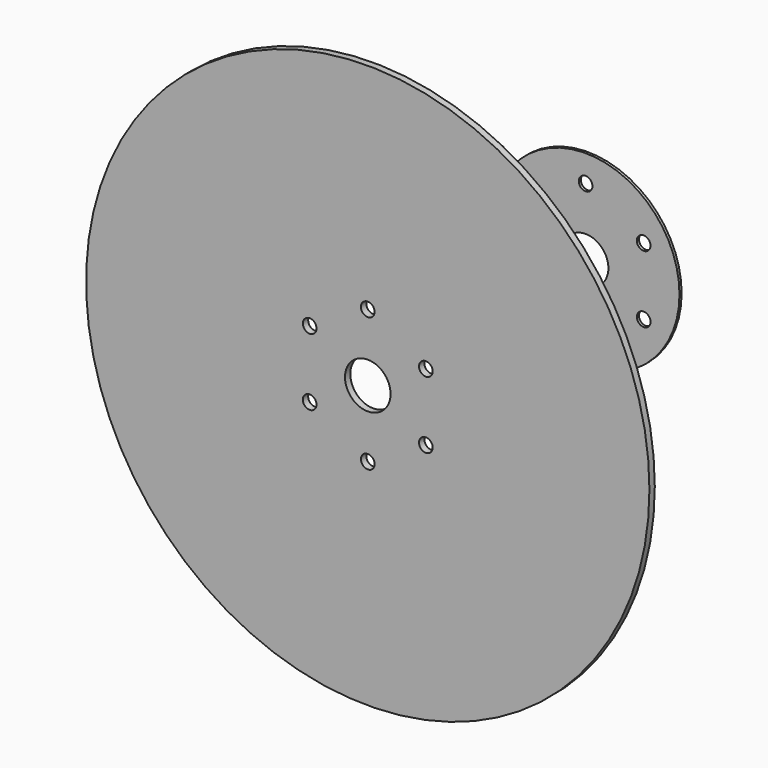
from build123d import *

# Parameters (mm, degrees)
F0_R     = 44.45
F0_R_2   = 3.2385
F0_R_3   = 10.795
F1_DEPTH = 1.27
F3_R     = 133.35
F3_R_2   = 3.2385
F3_R_3   = 10.795
F4_DEPTH = 3.175


with BuildPart() as f1:
    # F0 (on Front) → F1 (new body)
    with BuildSketch(Plane.XZ):
        Circle(F0_R)
        with Locations((-27.496307, -15.875)):
            Circle(F0_R_2, mode=Mode.SUBTRACT)
        with Locations((0, -31.75)):
            Circle(F0_R_2, mode=Mode.SUBTRACT)
        with Locations((27.496307, -15.875)):
            Circle(F0_R_2, mode=Mode.SUBTRACT)
        with Locations((-27.496307, 15.875)):
            Circle(F0_R_2, mode=Mode.SUBTRACT)
        Circle(F0_R_3, mode=Mode.SUBTRACT)
        with Locations((27.496307, 15.875)):
            Circle(F0_R_2, mode=Mode.SUBTRACT)
        with Locations((0, 31.75)):
            Circle(F0_R_2, mode=Mode.SUBTRACT)
    extrude(amount=F1_DEPTH)


with BuildPart() as f4:
    # F3 (on offset) → F4 (new body)
    with BuildSketch(Plane.XZ.offset(127)):
        Circle(F3_R)
        with Locations((-27.496307, -15.875)):
            Circle(F3_R_2, mode=Mode.SUBTRACT)
        with Locations((0, -31.75)):
            Circle(F3_R_2, mode=Mode.SUBTRACT)
        with Locations((27.496307, -15.875)):
            Circle(F3_R_2, mode=Mode.SUBTRACT)
        with Locations((-27.496307, 15.875)):
            Circle(F3_R_2, mode=Mode.SUBTRACT)
        Circle(F3_R_3, mode=Mode.SUBTRACT)
        with Locations((27.496307, 15.875)):
            Circle(F3_R_2, mode=Mode.SUBTRACT)
        with Locations((0, 31.75)):
            Circle(F3_R_2, mode=Mode.SUBTRACT)
    extrude(amount=F4_DEPTH)


solid = Compound([f1.part, f4.part])
